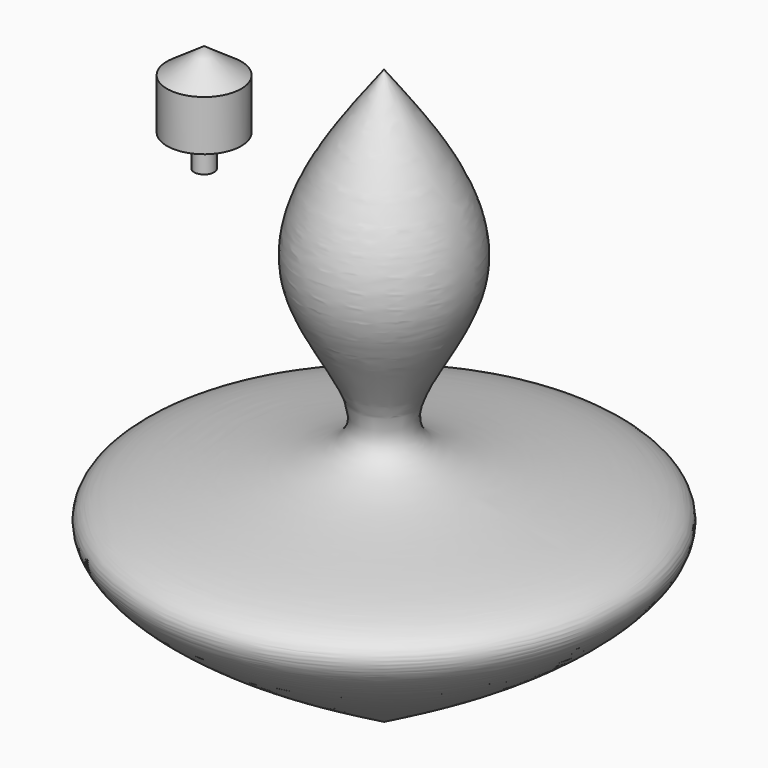
from build123d import *


with BuildPart() as f1:
    # F0 (on Front) → F1 (revolve)
    with BuildSketch(Plane.XZ):
        with BuildLine():
            add(Edge.make_bspline(
                [(0, 76.3229057193), (12.6285877594, 59.6062938309), (35.7848112443, 28.9541252611), (-15.5173029444, -19.7190327797), (103.0736799176, -18.3189130996), (36.3268166009, -56.4771498934), (0, -77.2446766496)],
                knots=[0, 0, 0, 0, 0.2453403957, 0.4498647942, 0.7005902639, 1, 1, 1, 1], degree=3))
            Line((0, 76.3229057193), (0, -77.2446766496))
        make_face()
    revolve(axis=Axis((0, 0, -0.4608854651), (0, 0, -1)))


with BuildPart() as f3:
    # F2 (on Front) → F3 (revolve)
    with BuildSketch(Plane.XZ):
        Polygon((-38.1683818996, 59.3320503831), (-48.0899885297, 66.1629736423), (-48.0899885297, 37.3309217393), (-45.4165861011, 37.3309217393), (-45.4165861011, 45.8640791476), (-38.1683818996, 45.8640791476), align=None)
    revolve(axis=Axis((-48.0899885297, 0, 51.7469476908), (0, 0, -1)))


solid = Compound([f1.part, f3.part])
